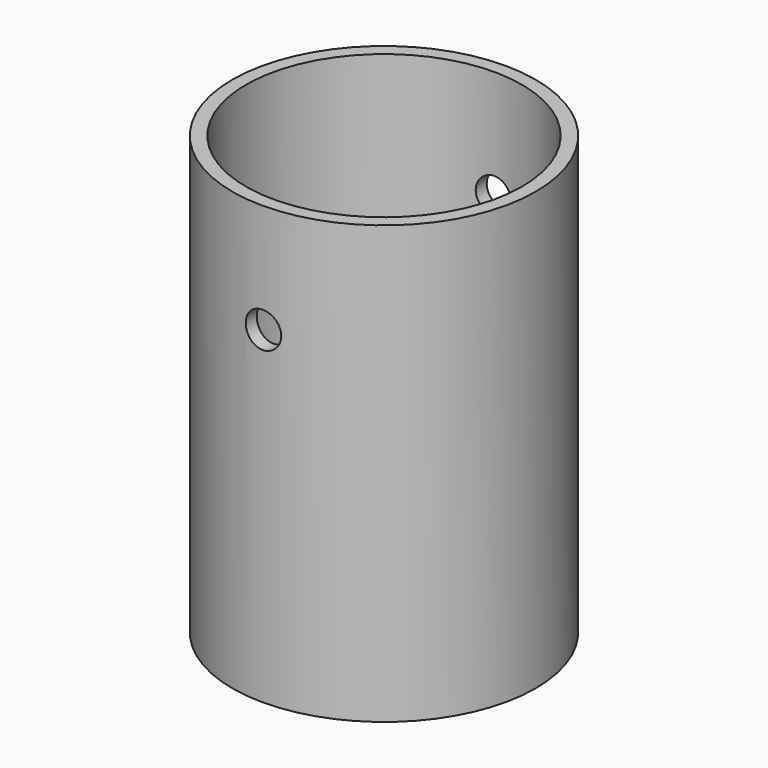
from build123d import *

# Parameters (mm, degrees)
F0_R     = 27.75
F1_DEPTH = 80
F2_T     = -2.5
F3_R     = 3.25
F4_DEPTH = 30


with BuildPart() as f1:
    # F0 (on Top) → F1 (new body)
    with BuildSketch(Plane.XY):
        Circle(F0_R)
    extrude(amount=F1_DEPTH)

    # F2
    f2_openings = [f1.faces().sort_by_distance(p)[0] for p in [
        (0, 0, 80),
        (0, 0, 0),
    ]]
    offset(amount=F2_T, openings=f2_openings)

    # F3 (on Front) → F4 (cut, symmetric)
    with BuildSketch(Plane.XZ):
        with Locations((0, 60)):
            Circle(F3_R)
    extrude(amount=F4_DEPTH, both=True, mode=Mode.SUBTRACT)


solid = f1.part
